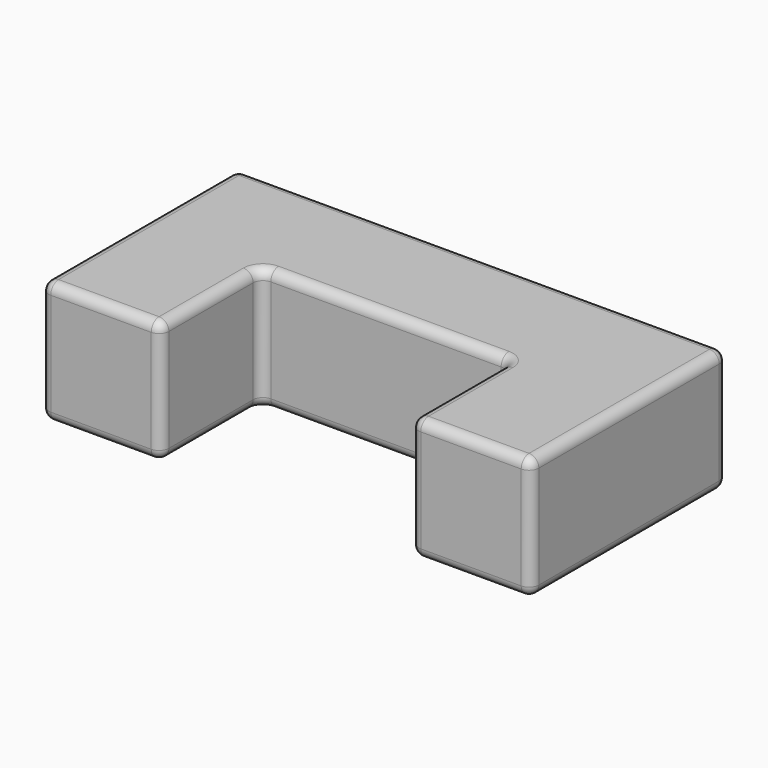
from build123d import *

# Parameters (mm, degrees)
F1_DEPTH = 25
F2_R     = 2


with BuildPart() as f1:
    # F0 (on Top) → F1 (new body)
    with BuildSketch(Plane.XY):
        Polygon((-50, 50), (-50, 0), (-25.5, 0), (-25.5, 25.5), (25.5, 25.5), (25.5, 0), (50, 0), (50, 50), align=None)
    extrude(amount=F1_DEPTH)

    # F2
    f2_edges = [f1.edges().sort_by_distance(p)[0] for p in [
        (-50, 50, 12.5),
        (0, 25.5, 25),
        (-50, 0, 12.5),
        (50, 0, 12.5),
        (0, 50, 25),
        (37.75, 0, 0),
        (25.5, 0, 12.5),
        (-50, 25, 25),
        (-37.75, 0, 25),
        (-50, 25, 0),
        (25.5, 25.5, 12.5),
        (-37.75, 0, 0),
        (0, 25.5, 0),
        (37.75, 0, 25),
        (-25.5, 12.75, 25),
        (-25.5, 25.5, 12.5),
        (25.5, 12.75, 25),
        (50, 50, 12.5),
        (25.5, 12.75, 0),
        (0, 50, 0),
        (50, 25, 25),
        (50, 25, 0),
        (-25.5, 0, 12.5),
        (-25.5, 12.75, 0),
    ]]
    fillet(f2_edges, radius=F2_R)


solid = f1.part
